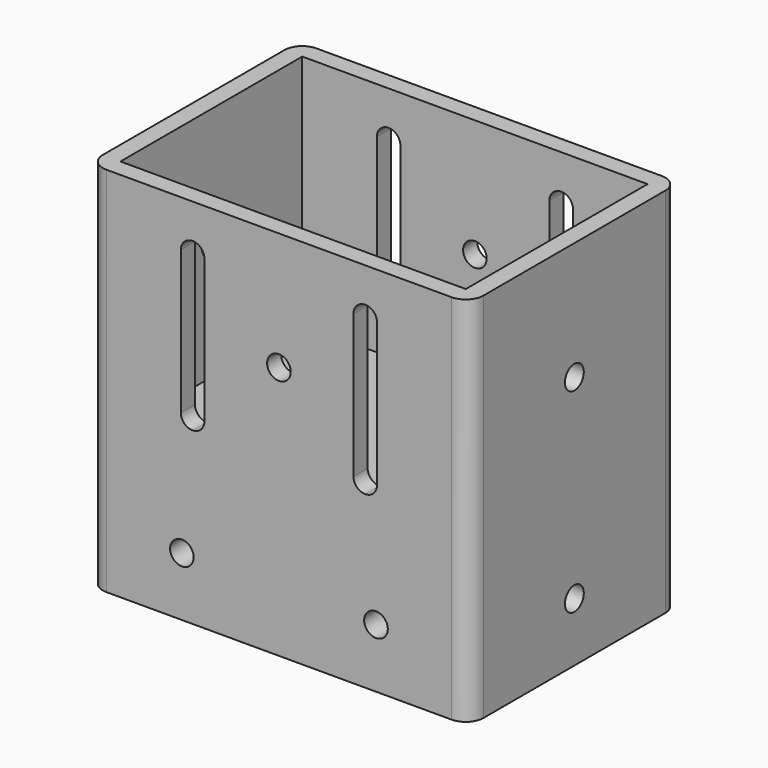
from build123d import *

# Parameters (mm, degrees)
F0_W          = 64.5
F0_H          = 44.5
F0_W_2        = 58.5
F0_H_2        = 38.5
F1_DEPTH      = 40
F2_DEPTH      = 3
F4_DEPTH      = 20
F5_R          = 2
F6_DEPTH      = 3.001
F6_DEPTH_BACK = 41.5
F7_R          = 3
F8_R          = 2
F9_DEPTH      = 25
F10_R         = 2
F11_DEPTH     = 25
F12_R         = 2
F13_DEPTH     = 64.501


with BuildPart() as f1:
    # F0 (on Top) → F1 (new body)
    with BuildSketch(Plane.XY):
        Rectangle(F0_W, F0_H)
        Rectangle(F0_W_2, F0_H_2, mode=Mode.SUBTRACT)
    extrude(amount=F1_DEPTH)

    # F0 (on Top) → F2 (join)
    with BuildSketch(Plane.XY):
        Rectangle(F0_W, F0_H)
        Rectangle(F0_W_2, F0_H_2, mode=Mode.SUBTRACT)
        Rectangle(F0_W_2, F0_H_2)
    extrude(amount=-F2_DEPTH)

    # F3 (on face) → F4 (join)
    with BuildSketch(Plane(origin=(0, 0, -3), x_dir=(1, 0, 0), z_dir=(0, 0, -1))):
        Polygon((27.25, -22.25), (32.25, -22.25), (32.25, 22.25), (-32.25, 22.25), (-32.25, 17.25), (27.25, 17.25), align=None)
        Polygon((11.25, 1.25), (-32.25, 1.25), (-32.25, -3.75), (6.25, -3.75), (6.25, -22.25), (11.25, -22.25), align=None)
    extrude(amount=F4_DEPTH)

    # F5 (on face) → F6 (cut, two sides)
    with BuildSketch(Plane.XZ.offset(-19.25)) as f6_sk:
        with BuildLine():
            ThreePointArc((14.625, 5.8733418593), (16.0392135624, 6.4591282969), (16.625, 7.8733418593))
            Line((16.625, 7.8733418593), (16.625, 32.1266581407))
            ThreePointArc((16.625, 32.1266581407), (16.0392135624, 33.5408717031), (14.625, 34.1266581407))
            ThreePointArc((14.625, 34.1266581407), (13.2107864376, 33.5408717031), (12.625, 32.1266581407))
            Line((12.625, 32.1266581407), (12.625, 7.8733418593))
            ThreePointArc((12.625, 7.8733418593), (13.2107864376, 6.4591282969), (14.625, 5.8733418593))
        make_face()
        with BuildLine():
            ThreePointArc((-12.625, 32.1266581407), (-13.2107864376, 33.5408717031), (-14.625, 34.1266581407))
            ThreePointArc((-14.625, 34.1266581407), (-16.0392135624, 33.5408717031), (-16.625, 32.1266581407))
            Line((-16.625, 32.1266581407), (-16.625, 7.8733418593))
            ThreePointArc((-16.625, 7.8733418593), (-16.0392135624, 6.4591282969), (-14.625, 5.8733418593))
            ThreePointArc((-14.625, 5.8733418593), (-13.2107864376, 6.4591282969), (-12.625, 7.8733418593))
            Line((-12.625, 7.8733418593), (-12.625, 32.1266581407))
        make_face()
        with Locations((0, 20)):
            Circle(F5_R)
    extrude(amount=-F6_DEPTH, mode=Mode.SUBTRACT)
    extrude(f6_sk.sketch, amount=F6_DEPTH_BACK, mode=Mode.SUBTRACT)

    # F7
    f7_edges = [f1.edges().sort_by_distance(p)[0] for p in [
        (-32.25, 22.25, 18.5),
        (-32.25, -22.25, 8.5),
        (32.25, 22.25, 8.5),
        (32.25, -22.25, 8.5),
    ]]
    fillet(f7_edges, radius=F7_R)

    # F8 (on face) → F9 (cut, symmetric)
    with BuildSketch(Plane(origin=(0, -17.25, 0), x_dir=(-1, 0, 0), z_dir=(0, 1, 0))):
        with Locations((16.4400730282, -13)):
            Circle(F8_R)
        with Locations((-16.4400730282, -13)):
            Circle(F8_R)
    extrude(amount=F9_DEPTH, both=True, mode=Mode.SUBTRACT)

    # F10 (on face) → F11 (cut)
    with BuildSketch(Plane(origin=(27.25, 0, 0), x_dir=(0, -1, 0), z_dir=(-1, 0, 0))):
        with Locations((0, -13)):
            Circle(F10_R)
    extrude(amount=-F11_DEPTH, mode=Mode.SUBTRACT)

    # F12 (on face) → F13 (cut, through all)
    with BuildSketch(Plane(origin=(-32.25, 0, 0), x_dir=(0, -1, 0), z_dir=(-1, 0, 0))):
        with Locations((0, 20)):
            Circle(F12_R)
    extrude(amount=-F13_DEPTH, mode=Mode.SUBTRACT)


solid = f1.part
